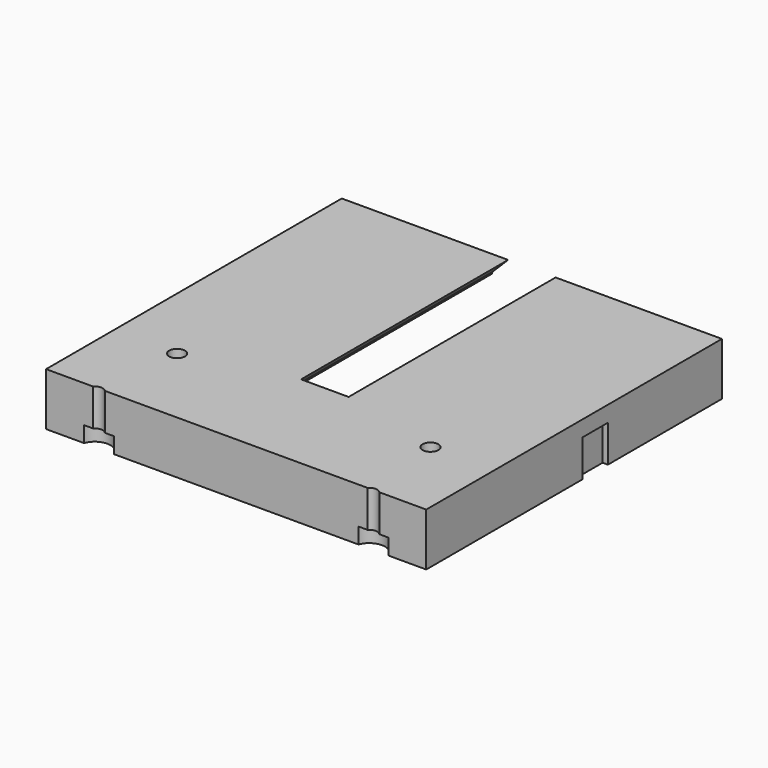
from build123d import *

# Parameters (mm, degrees)
BOX587_W                    = 4
BOX587_H                    = 15
BOX587_DEPTH                = 49
CHAMFER054_SIZE             = 3
CHAMFER054_PLACEMENT_ANGLE  = 90
CHAMFER053_SIZE             = 3
CHAMFER053_PLACEMENT_ANGLE  = 135
CHAMFER052_SIZE             = 3
CHAMFER052_PLACEMENT_ANGLE  = 180
CHAMFER051_SIZE             = 3
CHAMFER051_PLACEMENT_ANGLE  = 225
CHAMFER050_SIZE             = 3
CHAMFER050_PLACEMENT_ANGLE  = 90
CHAMFER049_SIZE             = 3
CHAMFER049_PLACEMENT_ANGLE  = 45
CHAMFER056_SIZE             = 3
CHAMFER055_SIZE             = 3
CHAMFER055_PLACEMENT_ANGLE  = 45
COMPOUND992_PLACEMENT_ANGLE = 90
BOX596_W                    = 6
BOX596_H                    = 6
BOX596_DEPTH                = 64
BOX597_W                    = 6
BOX597_H                    = 6
BOX597_DEPTH                = 64
CYLINDER2411_R              = 60.2
CYLINDER2411_DEPTH          = 58
CYLINDER2395_R              = 1.5
CYLINDER2395_DEPTH          = 32
CYLINDER2380_R              = 1.5
CYLINDER2380_DEPTH          = 32
CYLINDER2370_R              = 1.5
CYLINDER2370_DEPTH          = 100
CYLINDER2383_R              = 1.5
CYLINDER2383_DEPTH          = 100
CYLINDER2384_R              = 3
CYLINDER2384_DEPTH          = 3
CYLINDER2387_R              = 3
CYLINDER2387_DEPTH          = 3
CYLINDER2377_R              = 1.5
CYLINDER2377_DEPTH          = 50
CYLINDER2369_R              = 1.5
CYLINDER2369_DEPTH          = 50
CYLINDER2358_R              = 1.5
CYLINDER2358_DEPTH          = 50
CYLINDER2366_R              = 1.5
CYLINDER2366_DEPTH          = 50
CYLINDER2355_R              = 1.5
CYLINDER2355_DEPTH          = 100
CYLINDER2376_R              = 1.5
CYLINDER2376_DEPTH          = 100
CYLINDER2372_R              = 1.5
CYLINDER2372_DEPTH          = 100
CYLINDER2381_R              = 1.5
CYLINDER2381_DEPTH          = 100
BOX591_W                    = 72
BOX591_H                    = 70
BOX591_DEPTH                = 10
CUT583_PLACEMENT_ANGLE      = 180


with BuildPart() as krychle587:
    # Box587 → Box587 (new body)
    with BuildSketch(Plane(origin=(59, -7.5, 20), x_dir=(1, 0, 0), z_dir=(0, 0, 1))):
        with Locations((2, 7.5)):
            Rectangle(BOX587_W, BOX587_H)
    extrude(amount=BOX587_DEPTH)


with BuildPart() as chamfer054:
    # Chamfer054 base: copy of Krychle587
    add(krychle587.part)

    # Chamfer054
    chamfer054_edges = [chamfer054.edges().sort_by_distance(p)[0] for p in [
        (63, -7.5, 44.5),
        (63, 7.5, 44.5),
    ]]
    chamfer(chamfer054_edges, length=CHAMFER054_SIZE)


with BuildPart() as chamfer054_1:
    # Chamfer054 placement: moved
    add(chamfer054.part.rotate(Axis((0, 0, 0), (0, 0, 1)), CHAMFER054_PLACEMENT_ANGLE))


with BuildPart() as chamfer053:
    # Chamfer053 base: copy of Krychle587
    add(krychle587.part)

    # Chamfer053
    chamfer053_edges = [chamfer053.edges().sort_by_distance(p)[0] for p in [
        (63, -7.5, 44.5),
        (63, 7.5, 44.5),
    ]]
    chamfer(chamfer053_edges, length=CHAMFER053_SIZE)


with BuildPart() as chamfer053_1:
    # Chamfer053 placement: moved
    add(chamfer053.part.rotate(Axis((0, 0, 0), (0, 0, 1)), CHAMFER053_PLACEMENT_ANGLE))


with BuildPart() as chamfer052:
    # Chamfer052 base: copy of Krychle587
    add(krychle587.part)

    # Chamfer052
    chamfer052_edges = [chamfer052.edges().sort_by_distance(p)[0] for p in [
        (63, -7.5, 44.5),
        (63, 7.5, 44.5),
    ]]
    chamfer(chamfer052_edges, length=CHAMFER052_SIZE)


with BuildPart() as chamfer052_1:
    # Chamfer052 placement: moved
    add(chamfer052.part.rotate(Axis((0, 0, 0), (0, 0, 1)), CHAMFER052_PLACEMENT_ANGLE))


with BuildPart() as chamfer051:
    # Chamfer051 base: copy of Krychle587
    add(krychle587.part)

    # Chamfer051
    chamfer051_edges = [chamfer051.edges().sort_by_distance(p)[0] for p in [
        (63, -7.5, 44.5),
        (63, 7.5, 44.5),
    ]]
    chamfer(chamfer051_edges, length=CHAMFER051_SIZE)


with BuildPart() as chamfer051_1:
    # Chamfer051 placement: moved
    add(chamfer051.part.rotate(Axis((0, 0, 0), (0, 0, 1)), CHAMFER051_PLACEMENT_ANGLE))


with BuildPart() as chamfer050:
    # Chamfer050 base: copy of Krychle587
    add(krychle587.part)

    # Chamfer050
    chamfer050_edges = [chamfer050.edges().sort_by_distance(p)[0] for p in [
        (63, -7.5, 44.5),
        (63, 7.5, 44.5),
    ]]
    chamfer(chamfer050_edges, length=CHAMFER050_SIZE)


with BuildPart() as chamfer050_1:
    # Chamfer050 placement: moved
    add(chamfer050.part.rotate(Axis((0, 0, 0), (0, 0, -1)), CHAMFER050_PLACEMENT_ANGLE))


with BuildPart() as chamfer049:
    # Chamfer049 base: copy of Krychle587
    add(krychle587.part)

    # Chamfer049
    chamfer049_edges = [chamfer049.edges().sort_by_distance(p)[0] for p in [
        (63, -7.5, 44.5),
        (63, 7.5, 44.5),
    ]]
    chamfer(chamfer049_edges, length=CHAMFER049_SIZE)


with BuildPart() as chamfer049_1:
    # Chamfer049 placement: moved
    add(chamfer049.part.rotate(Axis((0, 0, 0), (0, 0, -1)), CHAMFER049_PLACEMENT_ANGLE))


with BuildPart() as chamfer056:
    # Chamfer056 base: copy of Krychle587
    add(krychle587.part)

    # Chamfer056
    chamfer056_edges = [chamfer056.edges().sort_by_distance(p)[0] for p in [
        (63, -7.5, 44.5),
        (63, 7.5, 44.5),
    ]]
    chamfer(chamfer056_edges, length=CHAMFER056_SIZE)


with BuildPart() as compound992:
    # Chamfer055 base: copy of Krychle587
    add(krychle587.part)

    # Chamfer055
    chamfer055_edges = [compound992.edges().sort_by_distance(p)[0] for p in [
        (63, -7.5, 44.5),
        (63, 7.5, 44.5),
    ]]
    chamfer(chamfer055_edges, length=CHAMFER055_SIZE)


with BuildPart() as compound992_1:
    # Chamfer055 placement: moved
    add(compound992.part.rotate(Axis((0, 0, 0), (0, 0, 1)), CHAMFER055_PLACEMENT_ANGLE))

    # Compound992: union Chamfer054, Chamfer053, Chamfer052, Chamfer051, Chamfer050, Chamfer049, Chamfer056
    add(chamfer054_1.part)
    add(chamfer053_1.part)
    add(chamfer052_1.part)
    add(chamfer051_1.part)
    add(chamfer050_1.part)
    add(chamfer049_1.part)
    add(chamfer056.part)


with BuildPart() as compound992_2:
    # Compound992 placement: moved
    add(compound992_1.part.moved(Location((52, -39, -89))).rotate(Axis((52, -39, -89), (-1, 0, 0)), COMPOUND992_PLACEMENT_ANGLE))


with BuildPart() as krychle596:
    # Box596 → Box596 (new body)
    with BuildSketch(Plane(origin=(87, -3, -93), x_dir=(1, 0, 0), z_dir=(0, 0, 1))):
        with Locations((3, 3)):
            Rectangle(BOX596_W, BOX596_H)
    extrude(amount=BOX596_DEPTH)


with BuildPart() as compound1007:
    # Box597 → Box597 (new body)
    with BuildSketch(Plane(origin=(11, -3, -93), x_dir=(1, 0, 0), z_dir=(0, 0, 1))):
        with Locations((3, 3)):
            Rectangle(BOX597_W, BOX597_H)
    extrude(amount=BOX597_DEPTH)

    # Compound1007: union Krychle596
    add(krychle596.part)


with BuildPart() as compound1007_1:
    # Compound1007 placement: moved
    add(compound1007.part.moved(Location((-52, 0, 36))))


with BuildPart() as obj1:
    # Cylinder2411 → Cylinder2411 (new body)
    with BuildSketch(Plane(origin=(0, 19, -53), x_dir=(1, 0, 0), z_dir=(0, -1, 0))):
        Circle(CYLINDER2411_R)
    extrude(amount=CYLINDER2411_DEPTH)


with BuildPart() as obj2:
    # Cylinder2395 → Cylinder2395 (new body)
    with BuildSketch(Plane(origin=(78, 41, -42), x_dir=(1, 0, 0), z_dir=(0, 0, 1))):
        Circle(CYLINDER2395_R)
    extrude(amount=CYLINDER2395_DEPTH)


with BuildPart() as compound1001:
    # Cylinder2380 → Cylinder2380 (new body)
    with BuildSketch(Plane(origin=(26, 41, -42), x_dir=(1, 0, 0), z_dir=(0, 0, 1))):
        Circle(CYLINDER2380_R)
    extrude(amount=CYLINDER2380_DEPTH)

    # Compound1001: union obj2
    add(obj2.part)


with BuildPart() as compound1001_1:
    # Compound1001 placement: moved
    add(compound1001.part.moved(Location((-52, 0, 36))))


with BuildPart() as obj3:
    # Cylinder2370 → Cylinder2370 (new body)
    with BuildSketch(Plane(origin=(14, 0, -60), x_dir=(1, 0, 0), z_dir=(0, 0, 1))):
        Circle(CYLINDER2370_R)
    extrude(amount=CYLINDER2370_DEPTH)


with BuildPart() as compound1011:
    # Cylinder2383 → Cylinder2383 (new body)
    with BuildSketch(Plane(origin=(90, 0, -60), x_dir=(1, 0, 0), z_dir=(0, 0, 1))):
        Circle(CYLINDER2383_R)
    extrude(amount=CYLINDER2383_DEPTH)

    # Compound1003: union obj3
    add(obj3.part)


with BuildPart() as compound1011_1:
    # Compound1003 placement: moved
    add(compound1011.part.moved(Location((-52, 0, 0))))

    # Compound1011: union Compound1001
    add(compound1001_1.part)


with BuildPart() as obj4:
    # Cylinder2384 → Cylinder2384 (new body)
    with BuildSketch(Plane(origin=(78, 41, -42), x_dir=(1, 0, 0), z_dir=(0, 0, 1))):
        Circle(CYLINDER2384_R)
    extrude(amount=CYLINDER2384_DEPTH)


with BuildPart() as compound1020:
    # Cylinder2387 → Cylinder2387 (new body)
    with BuildSketch(Plane(origin=(26, 41, -42), x_dir=(1, 0, 0), z_dir=(0, 0, 1))):
        Circle(CYLINDER2387_R)
    extrude(amount=CYLINDER2387_DEPTH)

    # Compound1020: union obj4
    add(obj4.part)


with BuildPart() as compound1020_1:
    # Compound1020 placement: moved
    add(compound1020.part.moved(Location((-52, 0, 42))))


with BuildPart() as obj5:
    # Cylinder2377 → Cylinder2377 (new body)
    with BuildSketch(Plane(origin=(-51, 6, 0), x_dir=(1, 0, 0), z_dir=(0, 0, 1))):
        Circle(CYLINDER2377_R)
    extrude(amount=CYLINDER2377_DEPTH)


with BuildPart() as obj6:
    # Cylinder2369 → Cylinder2369 (new body)
    with BuildSketch(Plane(origin=(-24, 18, 0), x_dir=(1, 0, 0), z_dir=(0, 0, 1))):
        Circle(CYLINDER2369_R)
    extrude(amount=CYLINDER2369_DEPTH)


with BuildPart() as obj7:
    # Cylinder2358 → Cylinder2358 (new body)
    with BuildSketch(Plane(origin=(24, 18, 0), x_dir=(1, 0, 0), z_dir=(0, 0, 1))):
        Circle(CYLINDER2358_R)
    extrude(amount=CYLINDER2358_DEPTH)


with BuildPart() as compound998:
    # Cylinder2366 → Cylinder2366 (new body)
    with BuildSketch(Plane(origin=(51, 6, 0), x_dir=(1, 0, 0), z_dir=(0, 0, 1))):
        Circle(CYLINDER2366_R)
    extrude(amount=CYLINDER2366_DEPTH)

    # Compound998: union obj5, obj6, obj7
    add(obj5.part)
    add(obj6.part)
    add(obj7.part)


with BuildPart() as compound998_1:
    # Compound998 placement: moved
    add(compound998.part.moved(Location((0, 6, 0))))


with BuildPart() as obj8:
    # Cylinder2355 → Cylinder2355 (new body)
    with BuildSketch(Plane(origin=(51, -12, 0), x_dir=(1, 0, 0), z_dir=(0, 0, 1))):
        Circle(CYLINDER2355_R)
    extrude(amount=CYLINDER2355_DEPTH)


with BuildPart() as compound1019:
    # Cylinder2376 → Cylinder2376 (new body)
    with BuildSketch(Plane(origin=(-51, -12, 0), x_dir=(1, 0, 0), z_dir=(0, 0, 1))):
        Circle(CYLINDER2376_R)
    extrude(amount=CYLINDER2376_DEPTH)

    # Compound1019: union obj8
    add(obj8.part)


with BuildPart() as obj9:
    # Cylinder2372 → Cylinder2372 (new body)
    with BuildSketch(Plane(origin=(39, -21, 0), x_dir=(1, 0, 0), z_dir=(0, 0, 1))):
        Circle(CYLINDER2372_R)
    extrude(amount=CYLINDER2372_DEPTH)


with BuildPart() as compound995:
    # Cylinder2381 → Cylinder2381 (new body)
    with BuildSketch(Plane(origin=(-39, -21, 0), x_dir=(1, 0, 0), z_dir=(0, 0, 1))):
        Circle(CYLINDER2381_R)
    extrude(amount=CYLINDER2381_DEPTH)

    # Compound1000: union obj9
    add(obj9.part)


with BuildPart() as compound995_1:
    # Compound1000 placement: moved
    add(compound995.part.moved(Location((0, -6, 0))))

    # Compound995: union Compound998, Compound1019
    add(compound998_1.part)
    add(compound1019.part)


with BuildPart() as compound995_2:
    # Compound995 placement: moved
    add(compound995_1.part.moved(Location((0, 0, -10))))


with BuildPart() as cut594:
    # Box591 → Box591 (new body)
    with BuildSketch(Plane(origin=(-36, -30, 0), x_dir=(1, 0, 0), z_dir=(0, 0, 1))):
        with Locations((36, 35)):
            Rectangle(BOX591_W, BOX591_H)
    extrude(amount=BOX591_DEPTH)

    # Cut582: cut Compound995
    add(compound995_2.part, mode=Mode.SUBTRACT)

    # Cut576: cut Compound1020
    add(compound1020_1.part, mode=Mode.SUBTRACT)

    # Cut573: cut Compound1011
    add(compound1011_1.part, mode=Mode.SUBTRACT)

    # Cut579: cut obj1
    add(obj1.part, mode=Mode.SUBTRACT)

    # Cut583: cut Compound1007
    add(compound1007_1.part, mode=Mode.SUBTRACT)


with BuildPart() as cut594_1:
    # Cut583 placement: moved
    add(cut594.part.moved(Location((52, 0, -36))).rotate(Axis((52, 0, -36), (0, 0, 1)), CUT583_PLACEMENT_ANGLE))

    # Cut594: cut Compound992
    add(compound992_2.part, mode=Mode.SUBTRACT)


solid = cut594_1.part
